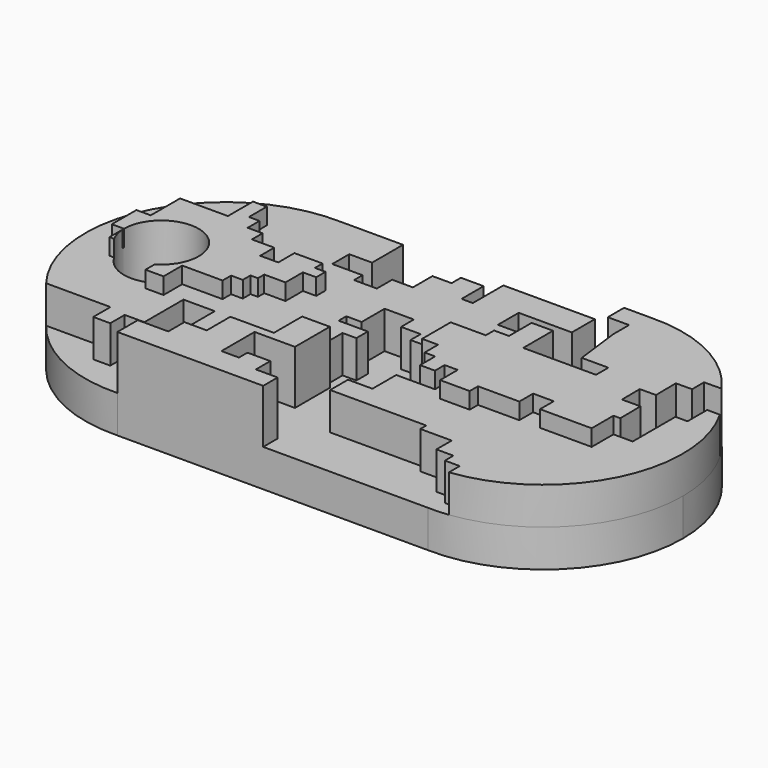
from build123d import *

# Parameters (mm, degrees)
F1_DEPTH = 1.5875
F3_DEPTH = 1.5875
F5_DEPTH = 2.286
F7_D     = 3.175


with BuildPart() as f1:
    # F0 (on Top) → F1 (new body)
    with BuildSketch(Plane.XY):
        with BuildLine():
            Line((-6.5978553766, -5.9320485739), (-6.5978553766, 5.9320485739))
            ThreePointArc((-6.5978553766, 5.9320485739), (-12.709989627, 0), (-6.5978553766, -5.9320485739))
        make_face()
        with BuildLine():
            ThreePointArc((6.5978553766, -5.9320485739), (0.8217055079, 0), (6.5978553766, 5.9320485739))
            Line((6.5978553766, 5.9320485739), (-6.5978553766, 5.9320485739))
            ThreePointArc((-6.5978553766, 5.9320485739), (-2.5165504172, 4.1332597664), (-0.8405865011, 0))
            ThreePointArc((-0.8405865011, 0), (-2.5165504172, -4.1332597664), (-6.5978553766, -5.9320485739))
            Line((-6.5978553766, -5.9320485739), (6.5978553766, -5.9320485739))
        make_face()
        with BuildLine():
            ThreePointArc((-0.8405865011, 0), (-2.5165504172, 4.1332597664), (-6.5978553766, 5.9320485739))
            Line((-6.5978553766, 5.9320485739), (-6.5978553766, -5.9320485739))
            ThreePointArc((-6.5978553766, -5.9320485739), (-2.5165504172, -4.1332597664), (-0.8405865011, 0))
        make_face()
        with BuildLine():
            Line((6.5978553766, -5.9320485739), (6.5978553766, 5.9320485739))
            ThreePointArc((6.5978553766, 5.9320485739), (0.8217055079, 0), (6.5978553766, -5.9320485739))
        make_face()
        with BuildLine():
            ThreePointArc((12.690010373, 0), (10.8956981423, 4.2515747901), (6.5978553766, 5.9320485739))
            Line((6.5978553766, 5.9320485739), (6.5978553766, -5.9320485739))
            ThreePointArc((6.5978553766, -5.9320485739), (10.8956981423, -4.2515747901), (12.690010373, 0))
        make_face()
    extrude(amount=F1_DEPTH)

    # F2 (on face) → F3 (join)
    with BuildSketch(Plane.XY.offset(1.5875)):
        with BuildLine():
            ThreePointArc((-6.5978553766, 5.9320485739), (-12.0627834903, 2.6950092316), (-11.4711001176, -3.6290538435))
            Line((-11.4711001176, -3.6290538435), (-8.7349893034, -3.6290538435))
            Line((-8.7349893034, -3.6290538435), (-8.7349893034, -4.5425537974))
            Line((-8.7349893034, -4.5425537974), (-8.0122929066, -4.5425537974))
            Line((-8.0122929066, -4.5425537974), (-8.0122929066, -3.7746890448))
            Line((-8.0122929066, -3.7746890448), (-7.1766753681, -3.7746890448))
            Line((-7.1766753681, -3.7746890448), (-7.1766753681, -1.6969369026))
            Line((-7.1766753681, -1.6969369026), (-5.8442042209, -1.6969369026))
            Line((-5.8442042209, -1.6969369026), (-5.8442042209, -3.5262622405))
            Line((-5.8442042209, -3.5262622405), (-4.3536424637, -3.5262622405))
            Line((-4.3536424637, -3.5262622405), (-4.3536424637, -2.7358129155))
            Line((-4.3536424637, -2.7358129155), (-2.5017331354, -2.7358129155))
            Line((-2.5017331354, -2.7358129155), (-2.5017331354, -0.9290719172))
            Line((-2.5017331354, -0.9290719172), (-1.5531941317, -0.9290719172))
            Line((-1.5531941317, -0.9290719172), (-1.5531941317, -0.2741282515))
            Line((-1.5531941317, -0.2741282515), (-0.9660032811, -0.2741282515))
            Line((-0.9660032811, -0.2741282515), (-0.9660032811, 0.335646735))
            Line((-0.9660032811, 0.335646735), (-2.2081376519, 0.335646735))
            Line((-2.2081376519, 0.335646735), (-2.2081376519, 0.7421634509))
            Line((-2.2081376519, 0.7421634509), (-1.5531941317, 0.7421634509))
            Line((-1.5531941317, 0.7421634509), (-1.5531941317, 1.961713424))
            Line((-1.5531941317, 1.961713424), (-0.3110597027, 1.961713424))
            Line((-0.3110597027, 1.961713424), (-0.3110597027, 1.2841859134))
            Line((-0.3110597027, 1.2841859134), (0.5245580105, 1.2841859134))
            Line((0.5245580105, 1.2841859134), (0.5245580105, 0.7421634509))
            Line((0.5245580105, 0.7421634509), (1.6086027026, 0.7421634509))
            Line((1.6086027026, 0.7421634509), (1.6086027026, 1.6907026293))
            Line((1.6086027026, 1.6907026293), (2.7378157247, 1.6907026293))
            Line((2.7378157247, 1.6907026293), (2.7378157247, 1.961713424))
            Line((2.7378157247, 1.961713424), (3.7315234076, 1.961713424))
            Line((3.7315234076, 1.961713424), (3.7315234076, 3.4071067348))
            Line((3.7315234076, 3.4071067348), (2.1054563113, 3.4071067348))
            Line((2.1054563113, 3.4071067348), (2.1054563113, 4.5137354173))
            Line((2.1054563113, 4.5137354173), (4.3638828211, 4.5137354173))
            Line((4.3638828211, 4.5137354173), (4.3638828211, 5.7332855649))
            Line((4.3638828211, 5.7332855649), (0.4793896514, 5.7332855649))
            Line((0.4793896514, 5.7332855649), (0.4793896514, 4.1072187014))
            Line((0.4793896514, 4.1072187014), (0, 4.1072187014))
            Line((0, 4.1072187014), (0, 5.2816001698))
            Line((0, 5.2816001698), (-0.9660032811, 5.2816001698))
            Line((-0.9660032811, 5.2816001698), (-0.9660032811, 4.7847465612))
            Line((-0.9660032811, 4.7847465612), (-1.7790367128, 4.7847465612))
            Line((-1.7790367128, 4.7847465612), (-1.7790367128, 3.7458706647))
            Line((-1.7790367128, 3.7458706647), (-2.659823047, 3.7458706647))
            Line((-2.659823047, 3.7458706647), (-2.659823047, 2.9328370001))
            Line((-2.659823047, 2.9328370001), (-3.6309461575, 2.9328370001))
            Line((-3.6309461575, 2.9328370001), (-3.6309461575, 3.3845223952))
            Line((-3.6309461575, 3.3845223952), (-4.918249324, 3.3845223952))
            Line((-4.918249324, 3.3845223952), (-4.918249324, 4.2878929526))
            Line((-4.918249324, 4.2878929526), (-3.9471257478, 4.2878929526))
            Line((-3.9471257478, 4.2878929526), (-3.9471257478, 5.9320485739))
            Line((-3.9471257478, 5.9320485739), (-6.5978553766, 5.9320485739))
        make_face()
        Polygon((-9.9771246314, -0.7709816564), (-10.8804944903, -0.7709816564), (-11.0611692071, -0.7709816564), (-11.0611692071, 0), (-11.5806059912, 0), (-11.5806059912, 1.3067703694), (-10.9708309174, 1.3067703694), (-10.9708309174, 2.865084447), (-8.9382473379, 2.865084447), (-8.9382473379, 4.1975560598), (-8.3510568365, 4.1975560598), (-8.3510568365, 3.2490168232), (-7.8993719071, 3.2490168232), (-7.8993719071, 2.6166576426), (-7.2670122609, 2.6166576426), (-7.2670122609, 2.0520510152), (-6.3184732571, 2.0520510152), (-6.3184732571, 1.3067703694), (-5.5506085046, 1.3067703694), (-5.5506085046, 2.1649722476), (-4.3536424637, 2.1649722476), (-4.3536424637, 1.7584556481), (-3.9019573014, 1.7584556481), (-3.9019573014, 1.2616018066), (-4.4665639289, 1.2616018066), (-4.4665639289, 0.3356471134), (-5.3699342534, 0.3356471134), (-5.3699342534, 0), (-5.6861140765, 0), (-5.6861140765, -0.4096335906), (-6.1829676852, -0.4096335906), (-6.1829676852, -0.861318782), (-7.8993719071, -0.861318782), (-7.8993719071, -1.8550264649), (-8.6672371253, -1.8550264649), (-8.6672371253, -1.2678354979), (-9.9771246314, -1.2678354979), align=None, mode=Mode.SUBTRACT)
        with BuildLine():
            Line((7.4611278251, -5.3125037812), (7.4611278251, -5.8920929628))
            ThreePointArc((7.4611278251, -5.8920929628), (12.0622499224, -2.6563827336), (11.8955459879, 2.9661038195))
            Line((11.8955459879, 2.9661038195), (11.3531596702, 2.9661038195))
            Line((11.3531596702, 2.9661038195), (11.3531596702, 1.9232030026))
            Line((11.3531596702, 1.9232030026), (10.8406217769, 1.9232030026))
            Line((10.8406217769, 1.9232030026), (10.8406217769, -0.3466297348))
            Line((10.8406217769, -0.3466297348), (10.0205531344, -0.3466297348))
            Line((10.0205531344, -0.3466297348), (10.0205531344, -1.5035122633))
            Line((10.0205531344, -1.5035122633), (7.8239412978, -1.5035122633))
            Line((7.8239412978, -1.5035122633), (7.8239412978, -0.7709816564))
            Line((7.8239412978, -0.7709816564), (6.9452961907, -0.7709816564))
            Line((6.9452961907, -0.7709816564), (6.9452961907, -1.5035122633))
            Line((6.9452961907, -1.5035122633), (5.188006442, -1.5035122633))
            Line((5.188006442, -1.5035122633), (5.188006442, -1.9428347005))
            Line((5.188006442, -1.9428347005), (3.9286147803, -1.9428347005))
            Line((3.9286147803, -1.9428347005), (3.9286147803, -1.0056134779))
            Line((3.9286147803, -1.0056134779), (3.3721399959, -1.0056134779))
            Line((3.3721399959, -1.0056134779), (3.3721399959, -1.518347417))
            Line((3.3721399959, -1.518347417), (1.7247250071, -1.518347417))
            Line((1.7247250071, -1.518347417), (1.7247250071, -2.7830661274))
            Line((1.7247250071, -2.7830661274), (0.6858487031, -2.7830661274))
            Line((0.6858487031, -2.7830661274), (0.6858487031, -3.7316051312))
            Line((0.6858487031, -3.7316051312), (4.7736004926, -3.7316051312))
            Line((4.7736004926, -3.7316051312), (4.7736004926, -4.0477849543))
            Line((4.7736004926, -4.0477849543), (6.1060716398, -4.0477849543))
            Line((6.1060716398, -4.0477849543), (6.1060716398, -4.8608183861))
            Line((6.1060716398, -4.8608183861), (6.8287681788, -4.8608183861))
            Line((6.8287681788, -4.8608183861), (6.8287681788, -5.3125037812))
            Line((6.8287681788, -5.3125037812), (7.4611278251, -5.3125037812))
        make_face()
    extrude(amount=F3_DEPTH)

    # F4 (on face) + F2 (on face) → F5 (join)
    with BuildSketch(Plane.XY.offset(1.5875)):
        Polygon((-6.5978553766, -4.8479302786), (-6.5978553766, -5.9320485739), (-0.3998816828, -5.9320485739), (-0.3998816828, -5.1641101018), (-1.3260724954, -5.1641101018), (-1.3260724954, -4.3962453492), (-2.2974435706, -4.3962453492), (-2.2974435706, -4.8479302786), (-3.0429142062, -4.8479302786), (-3.0429142062, -3.0863578431), (-1.3260724954, -3.0863578431), (-1.3260724954, -1.2344483985), (-2.5017331354, -1.2344483985), (-2.5017331354, -2.0474819466), (-2.5017331354, -2.7358129155), (-4.3536424637, -2.7358129155), (-4.3536424637, -3.5262622405), (-4.3536424637, -3.9897281677), (-5.3019165061, -3.9897281677), (-5.3019165061, -4.8479302786), align=None)
        with BuildLine():
            Line((2.7378157247, -0.7150101592), (2.7378157247, -1.518347417))
            Line((2.7378157247, -1.518347417), (3.3721399959, -1.518347417))
            Line((3.3721399959, -1.518347417), (3.3721399959, -1.0056134779))
            Line((3.3721399959, -1.0056134779), (3.9286147803, -1.0056134779))
            Line((3.9286147803, -1.0056134779), (3.9286147803, -1.9428347005))
            Line((3.9286147803, -1.9428347005), (5.188006442, -1.9428347005))
            Line((5.188006442, -1.9428347005), (5.188006442, -1.5035122633))
            Line((5.188006442, -1.5035122633), (6.9452961907, -1.5035122633))
            Line((6.9452961907, -1.5035122633), (6.9452961907, -0.7709816564))
            Line((6.9452961907, -0.7709816564), (7.8239412978, -0.7709816564))
            Line((7.8239412978, -0.7709816564), (7.8239412978, -1.5035122633))
            Line((7.8239412978, -1.5035122633), (10.0205531344, -1.5035122633))
            Line((10.0205531344, -1.5035122633), (10.0205531344, -0.3466297348))
            Line((10.0205531344, -0.3466297348), (10.313126753, -0.3466297348))
            Line((10.313126753, -0.3466297348), (10.3013587536, 0.7421634509))
            Line((10.3013587536, 0.7421634509), (9.5175903158, 0.7336922494))
            Line((9.5175903158, 0.7336922494), (9.507246664, 1.6907026293))
            Line((9.507246664, 1.6907026293), (10.1938991394, 1.6981241727))
            Line((10.1938991394, 1.6981241727), (10.1823782707, 2.7640524504))
            Line((10.1823782707, 2.7640524504), (10.8734230567, 2.7715214672))
            Line((10.8734230567, 2.7715214672), (10.8665534628, 3.4071067348))
            Line((10.8665534628, 3.4071067348), (11.6088011567, 3.4151291678))
            ThreePointArc((11.6088011567, 3.4151291678), (9.4193777464, 5.3028131531), (6.5978553766, 5.9320485739))
            Line((6.5978553766, 5.9320485739), (5.4509341717, 5.9320485739))
            Line((5.4509341717, 5.9320485739), (5.4509341717, 5.066561047))
            Line((5.4509341717, 5.066561047), (6.3545349985, 5.066561047))
            Line((6.3545349985, 5.066561047), (6.3545349985, 4.2309435084))
            Line((6.3545349985, 4.2309435084), (6.5978553766, 2.2435281426))
            Line((6.5978553766, 2.2435281426), (7.7325263992, 2.2435281426))
            Line((7.7325263992, 2.2435281426), (7.7325263992, 1.5885846224))
            Line((7.7325263992, 1.5885846224), (4.6376935206, 1.5885846224))
            Line((4.6376935206, 1.5885846224), (4.6376935206, 3.1694830395))
            Line((4.6376935206, 3.1694830395), (3.7315234076, 3.1694830395))
            Line((3.7315234076, 3.1694830395), (3.7315234076, 1.961713424))
            Line((3.7315234076, 1.961713424), (3.1015716959, 1.961713424))
            Line((3.1015716959, 1.961713424), (3.1015716959, 1.5208318364))
            Line((3.1015716959, 1.5208318364), (1.6086027026, 1.5208318364))
            Line((1.6086027026, 1.5208318364), (1.6086027026, 0.7421634509))
            Line((1.6086027026, 0.7421634509), (1.6086027026, 0))
            Line((1.6086027026, 0), (2.2883310448, 0))
            Line((2.2883310448, 0), (2.2883310448, -0.7150101592))
            Line((2.2883310448, -0.7150101592), (2.7378157247, -0.7150101592))
        make_face()
    with BuildSketch(Plane.XY.offset(1.5875)):
        Polygon((-11.0611692071, -0.7709816564), (-10.8804944903, -0.7709816564), (-9.9771246314, -0.7709816564), (-9.9771246314, -1.2678354979), (-8.6672371253, -1.2678354979), (-8.6672371253, -1.8550264649), (-7.8993719071, -1.8550264649), (-7.8993719071, -0.861318782), (-6.1829676852, -0.861318782), (-6.1829676852, -0.4096335906), (-5.6861140765, -0.4096335906), (-5.6861140765, 0), (-5.3699342534, 0), (-5.3699342534, 0.3356471134), (-4.4665639289, 0.3356471134), (-4.4665639289, 1.2616018066), (-3.9019573014, 1.2616018066), (-3.9019573014, 1.7584556481), (-4.3536424637, 1.7584556481), (-4.3536424637, 2.1649722476), (-5.5506085046, 2.1649722476), (-5.5506085046, 1.3067703694), (-6.3184732571, 1.3067703694), (-6.3184732571, 2.0520510152), (-7.2670122609, 2.0520510152), (-7.2670122609, 2.6166576426), (-7.8993719071, 2.6166576426), (-7.8993719071, 3.2490168232), (-8.3510568365, 3.2490168232), (-8.3510568365, 4.1975560598), (-8.9382473379, 4.1975560598), (-8.9382473379, 2.865084447), (-10.9708309174, 2.865084447), (-10.9708309174, 1.3067703694), (-11.5806059912, 1.3067703694), (-11.5806059912, 0), (-11.0611692071, 0), align=None)
    extrude(amount=F5_DEPTH)

    # F7 (through all)
    with Locations(Plane.XY.offset(3.8735)):
        with Locations((-9.4751771539, 0)):
            Hole(F7_D / 2)


solid = f1.part
